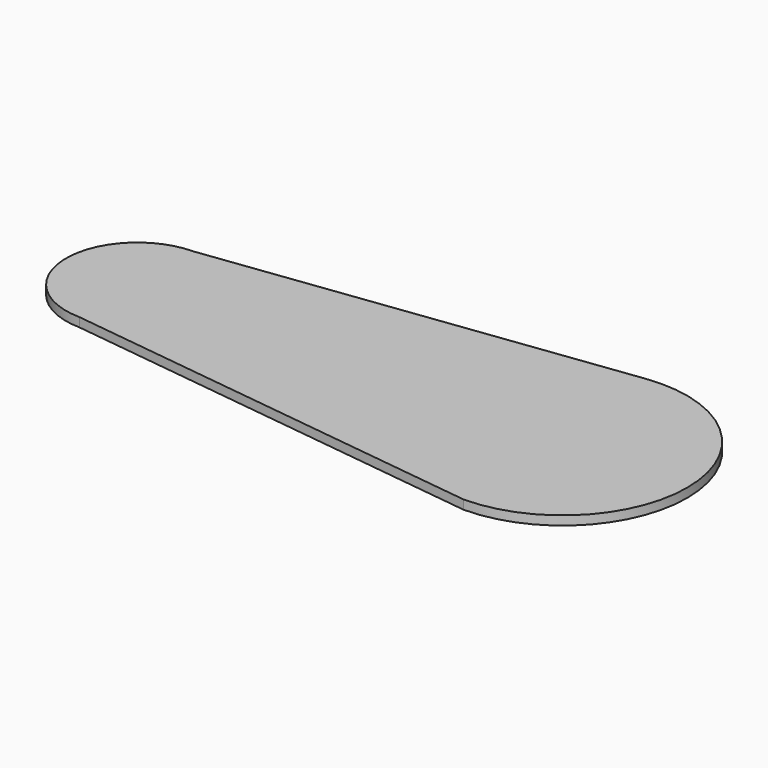
from build123d import *

# Parameters (mm, degrees)
F1_DEPTH = 25.4


with BuildPart() as f1:
    # F0 (on Top) → F1 (new body)
    with BuildSketch(Plane.XY):
        with BuildLine():
            ThreePointArc((-560.4426478817, -199.9853537809), (-417.4592454916, -142.2745187922), (-358.0222609062, 0))
            ThreePointArc((-358.0222609062, 0), (-417.3400111827, 142.1566200103), (-560.1073070336, 199.9891311613))
            ThreePointArc((-560.1073070336, 199.9891311613), (-758.0221906138, 0.1676810611), (-560.4426478817, -199.9853537809))
        make_face()
        with BuildLine():
            ThreePointArc((-560.1073070336, 199.9891311613), (-417.3400111827, 142.1566200103), (-358.0222609062, 0))
            ThreePointArc((-358.0222609062, 0), (-417.4592454916, -142.2745187922), (-560.4426478817, -199.9853537809))
            Line((-560.4426478817, -199.9853537809), (548.153966507, -338.6817831176))
            ThreePointArc((548.153966507, -338.6817831176), (287.1572274491, 22.3752183114), (592.0903447479, 347.1786204706))
            Line((592.0903447479, 347.1786204706), (-560.1073070336, 199.9891311613))
        make_face()
        with BuildLine():
            ThreePointArc((986.4412803423, 0), (867.7172762238, 262.7002354948), (592.0903447479, 347.1786204706))
            ThreePointArc((592.0903447479, 347.1786204706), (287.1572274491, 22.3752183114), (548.153966507, -338.6817831176))
            Line((548.153966507, -338.6817831176), (638.5684828729, -349.993535668))
            ThreePointArc((638.5684828729, -349.993535668), (884.6795941516, -246.7341475296), (986.4412803423, 0))
        make_face()
    extrude(amount=F1_DEPTH)


solid = f1.part
